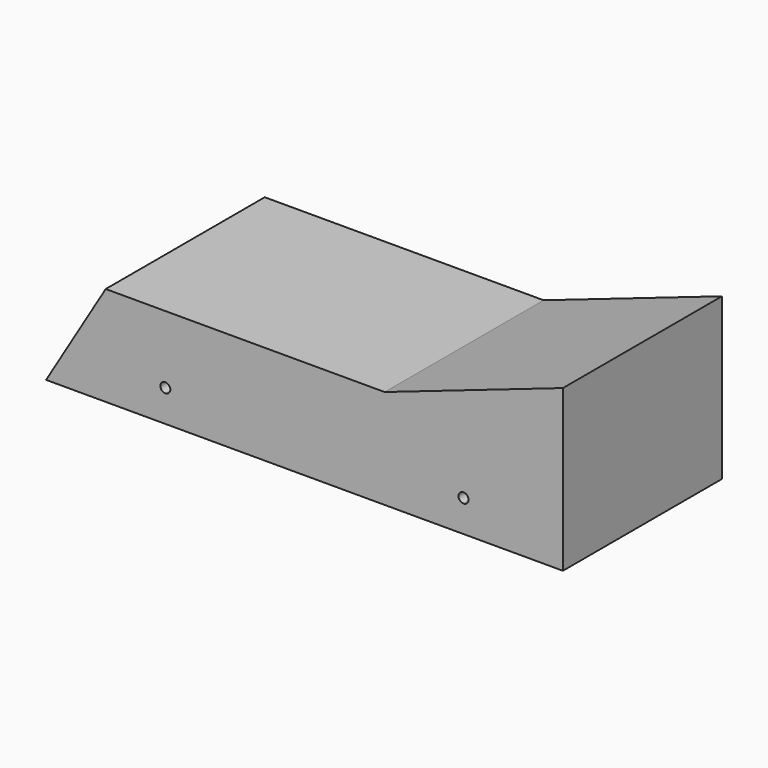
from build123d import *

# Parameters (mm, degrees)
F1_DEPTH = 50
F3_DEPTH = 50.001


with BuildPart() as f1:
    # F0 (on Front) → F1 (new body)
    with BuildSketch(Plane.XZ):
        Polygon((52.302633, -25), (52.302633, 25), (-47.697367, 25), (-77.697367, -25), (-47.697367, -25), (27.302633, -25), align=None)
        with BuildLine():
            ThreePointArc((-47.697367, -18.25), (-48.581251, -16.116117), (-46.447367, -17))
            ThreePointArc((-46.447367, -17), (-46.813484, -17.883883), (-47.697367, -18.25))
        make_face(mode=Mode.SUBTRACT)
        with BuildLine():
            ThreePointArc((27.302633, -18.25), (26.418749, -16.116117), (28.552633, -17))
            ThreePointArc((28.552633, -17), (28.186516, -17.883883), (27.302633, -18.25))
        make_face(mode=Mode.SUBTRACT)
    extrude(amount=F1_DEPTH)

    # F2 (on face) → F3 (cut, through all)
    with BuildSketch(Plane.XZ.offset(50)):
        Polygon((-47.697367, 25), (-62.697367, 0), (-28.942954, 0), (7.452939, 0), (52.302633, 15.462308), (52.302633, 25), align=None)
    extrude(amount=-F3_DEPTH, mode=Mode.SUBTRACT)


solid = f1.part
